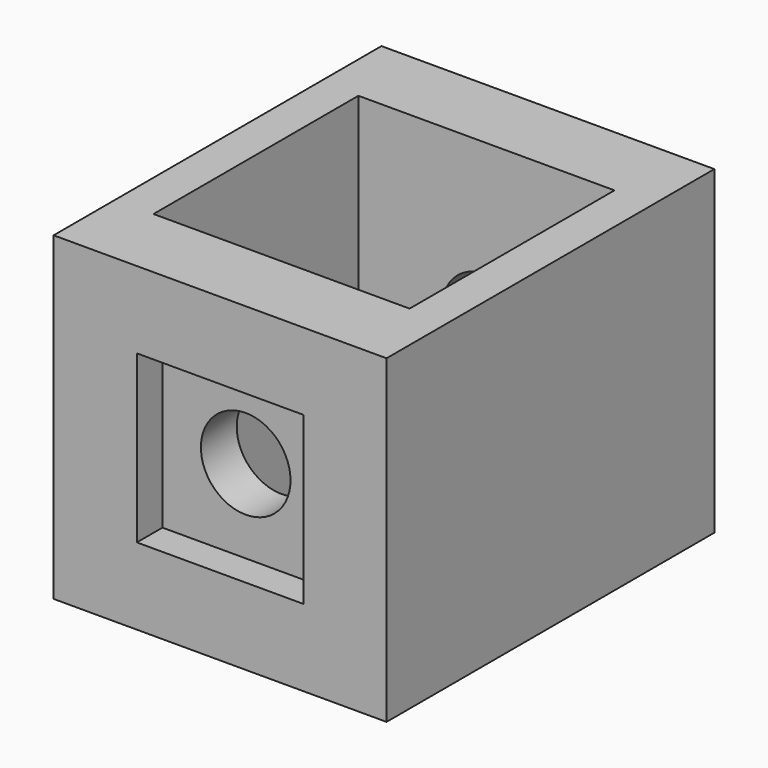
from build123d import *

# Parameters (mm, degrees)
F0_W      = 52
F0_H      = 64
F1_DEPTH  = 50
F2_W      = 40
F2_H      = 40
F3_DEPTH  = 50
F4_W      = 26
F4_H      = 26
F5_DEPTH  = 5
F6_R      = 7
F7_DEPTH  = 40
F8_W      = 26
F8_H      = 26
F9_DEPTH  = 5
F10_R     = 7
F11_DEPTH = 25


with BuildPart() as f1:
    # F0 (on Top) → F1 (new body)
    with BuildSketch(Plane.XY):
        with Locations((26, 32)):
            Rectangle(F0_W, F0_H)
    extrude(amount=F1_DEPTH)

    # F2 (on face) → F3 (cut)
    with BuildSketch(Plane.XY.offset(50)):
        with Locations((26, 32)):
            Rectangle(F2_W, F2_H)
    extrude(amount=-F3_DEPTH, mode=Mode.SUBTRACT)

    # F4 (on face) → F5 (cut)
    with BuildSketch(Plane.XZ):
        with Locations((26, 25)):
            Rectangle(F4_W, F4_H)
    extrude(amount=-F5_DEPTH, mode=Mode.SUBTRACT)

    # F6 (on face) → F7 (cut)
    with BuildSketch(Plane.XZ.offset(-5)):
        with Locations((26, 25)):
            Circle(F6_R)
    extrude(amount=-F7_DEPTH, mode=Mode.SUBTRACT)

    # F8 (on face) → F9 (cut)
    with BuildSketch(Plane(origin=(0, 64, 0), x_dir=(-1, 0, 0), z_dir=(0, 1, 0))):
        with Locations((-26, 25)):
            Rectangle(F8_W, F8_H)
    extrude(amount=-F9_DEPTH, mode=Mode.SUBTRACT)

    # F10 (on face) → F11 (cut)
    with BuildSketch(Plane(origin=(0, 59, 0), x_dir=(-1, 0, 0), z_dir=(0, 1, 0))):
        with Locations((-26, 25)):
            Circle(F10_R)
    extrude(amount=-F11_DEPTH, mode=Mode.SUBTRACT)


solid = f1.part
